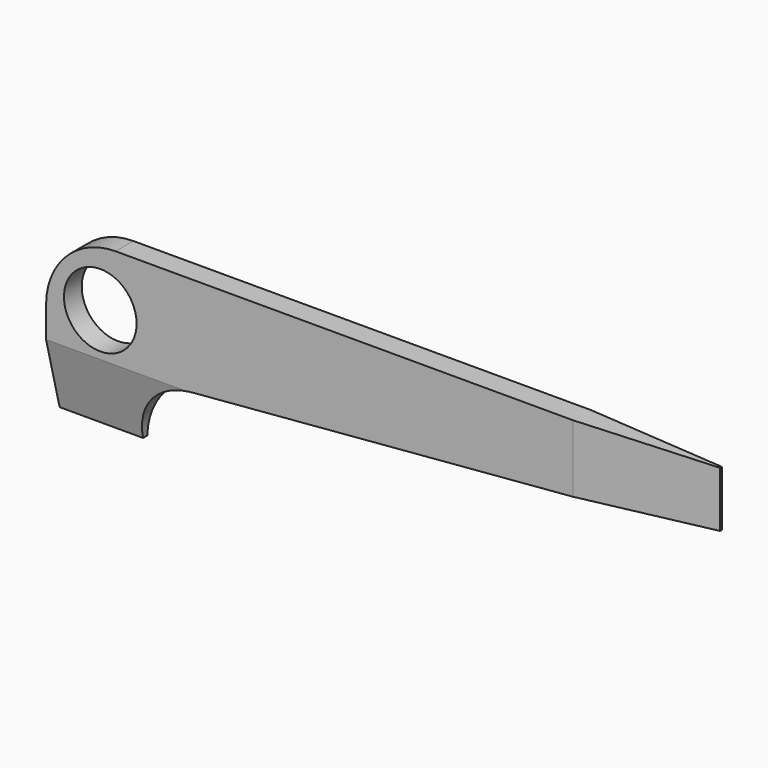
from build123d import *

# Parameters (mm, degrees)
F0_R     = 4.149094
F1_DEPTH = 2.54
F3_DEPTH = 25.4
F4_DEPTH = 25.4
F6_DEPTH = 25.4


with BuildPart() as f1:
    # F0 (on Front) → F1 (new body)
    with BuildSketch(Plane.XZ):
        with BuildLine():
            Line((-9.525, 6.705717), (-9.525, -4.406783))
            Line((-9.525, -4.406783), (0, -4.406783))
            Line((0, -4.406783), (0, -4.615923))
            ThreePointArc((0, -4.615923), (2.094218, 0.756224), (7.271803, 3.293612))
            Line((7.271803, 3.293612), (66.675, 8.293217))
            Line((66.675, 8.293217), (66.675, 14.643217))
            Line((66.675, 14.643217), (-1.5875, 14.643217))
            ThreePointArc((-1.5875, 14.643217), (-7.20016, 12.318377), (-9.525, 6.705717))
        make_face()
        with Locations((-3.333452, 8.143553)):
            Circle(F0_R, mode=Mode.SUBTRACT)
    extrude(amount=F1_DEPTH)

    # F2 (on face) → F3 (cut)
    with BuildSketch(Plane(origin=(-9.525, 0, 0), x_dir=(0, -1, 0), z_dir=(-1, 0, 0))):
        Polygon((2.54, -4.406783), (2.54, 3.190069), (0.604368, -4.406783), align=None)
    extrude(amount=-F3_DEPTH, mode=Mode.SUBTRACT)

    # F1_face (on face) → F4 (cut)
    with BuildSketch(Plane(origin=(-9.525, -1.27, 1.149467), x_dir=(0, -1, 0), z_dir=(-1, 0, 0))):
        Polygon((-0.665632, -5.55625), (-1.27, -5.55625), (-1.27, -5.76539), (1.27, -5.76539), (1.27, -5.55625), align=None)
    extrude(amount=-F4_DEPTH, mode=Mode.SUBTRACT)

    # F5 (on face) → F6 (cut)
    with BuildSketch(Plane.XY.offset(14.643217)):
        Polygon((66.675, 0), (50.660294, 0), (66.675, -1.27), align=None)
        Polygon((66.675, -1.524), (50.660294, -2.54), (66.675, -2.54), align=None)
    extrude(amount=-F6_DEPTH, mode=Mode.SUBTRACT)


solid = f1.part
